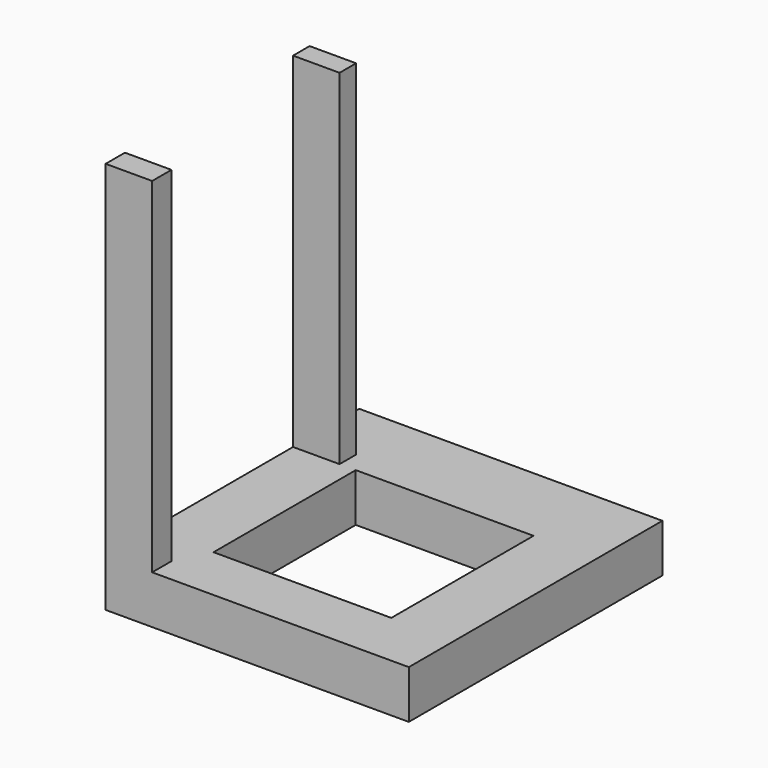
from build123d import *

# Parameters (mm, degrees)
SKETCH_W     = 44
SKETCH_H     = 46
PAD_DEPTH    = 7
SKETCH001_W  = 25.8
SKETCH001_H  = 25.8
POCKET_DEPTH = 8
SKETCH002_W  = 6.75
SKETCH002_H  = 3
PAD001_DEPTH = 50
SKETCH014_W  = 6.75
SKETCH014_H  = 3.5
PAD014_DEPTH = 50


with BuildPart() as part:
    # Sketch → Pad (new body)
    with BuildSketch(Plane.XY):
        with Locations((-22, -23)):
            Rectangle(SKETCH_W, SKETCH_H)
    extrude(amount=PAD_DEPTH)

    # Sketch001 (on Face6 of Pad) → Pocket (cut)
    with BuildSketch(Plane.XY.offset(7)):
        with Locations((-22, -24.9)):
            Rectangle(SKETCH001_W, SKETCH001_H)
    extrude(amount=-POCKET_DEPTH, mode=Mode.SUBTRACT)

    # Sketch002 (on Face5 of Pocket) → Pad001 (new body)
    with BuildSketch(Plane.XY.offset(7)):
        with Locations((-40.625, -10.5)):
            Rectangle(SKETCH002_W, SKETCH002_H)
    extrude(amount=PAD001_DEPTH)

    # Sketch014 (on Face5 of Pad001) → Pad014 (new body)
    with BuildSketch(Plane.XY.offset(7)):
        with Locations((-40.625, -44.25)):
            Rectangle(SKETCH014_W, SKETCH014_H)
    extrude(amount=PAD014_DEPTH)


solid = part.part
